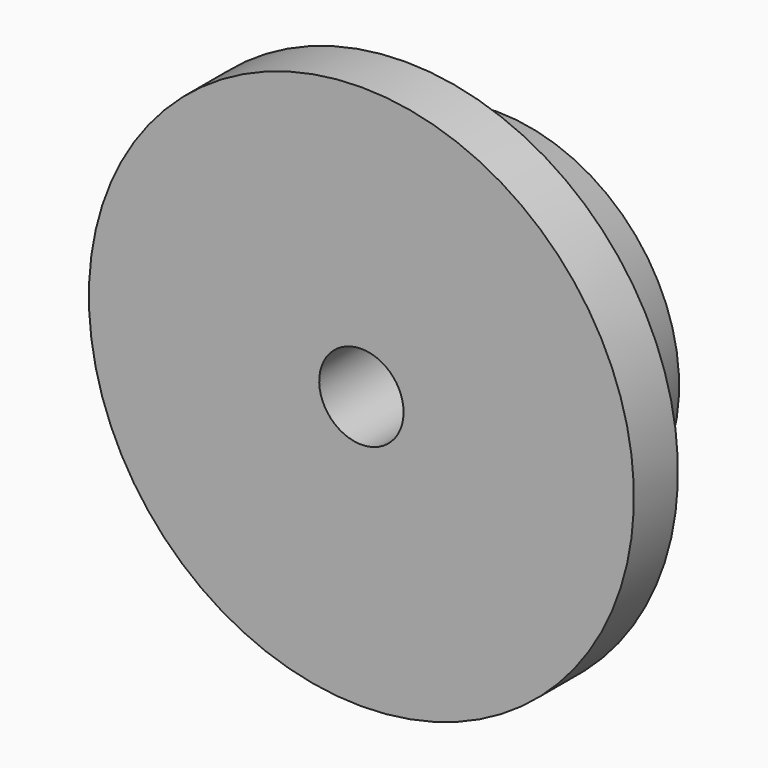
from build123d import *

# Parameters (mm, degrees)
F0_W     = 15.0114
F0_H     = 19.8755
F0_W_2   = 7.2136
F0_H_2   = 10.287
F2_R     = 1.5875
F3_SIZE2 = 1.5748
F3_SIZE  = 6.35


with BuildPart() as f1:
    # F0 (on Right) → F1 (revolve)
    with BuildSketch(Plane.YZ):
        with Locations((14.7193, 15.46225)):
            Rectangle(F0_W, F0_H)
        with Locations((3.6068, 15.46225)):
            Rectangle(F0_W_2, F0_H)
        with Locations((3.6068, 30.5435)):
            Rectangle(F0_W_2, F0_H_2)
    revolve(axis=Axis((0, 11.1125, 0), (0, 1, 0)))

    # F2
    f2_edges = [f1.edges().sort_by_distance(p)[0] for p in [
        (0, 7.2136, -25.4),
    ]]
    fillet(f2_edges, radius=F2_R)

    # F3
    f3_edges = [f1.edges().sort_by_distance(p)[0] for p in [
        (0, 22.225, -25.4),
    ]]
    chamfer(f3_edges, length=F3_SIZE, length2=F3_SIZE2)


solid = f1.part
